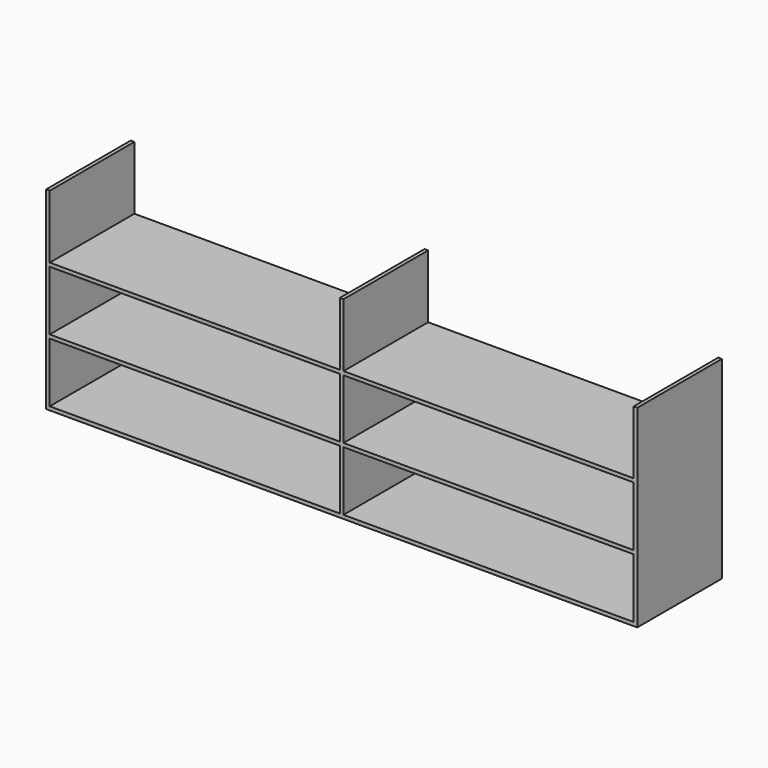
from build123d import *

# Parameters (mm, degrees)
SKETCH004_W      = 15
SKETCH004_H      = 435
EXTRUDE004_DEPTH = 780
ARRAY_X_COUNT    = 3
ARRAY_X_PITCH    = 1207.5
SKETCH003_W      = 2430
SKETCH003_H      = 435
EXTRUDE003_DEPTH = 15
ARRAY002_Z_COUNT = 3
ARRAY002_Z_PITCH = 260


with BuildPart() as obj1:
    # Sketch004 → Extrude004 (new body)
    with BuildSketch(Plane.XY):
        with Locations((7.5, 217.5)):
            Rectangle(SKETCH004_W, SKETCH004_H)
    extrude(amount=EXTRUDE004_DEPTH)

    # Array X: obj1 ×3


with BuildPart() as obj1_1:
    add(obj1.part)
    with Locations(*[(i * ARRAY_X_PITCH, 0, 0) for i in range(1, ARRAY_X_COUNT)]):
        add(obj1.part)


with BuildPart() as obj1_2:
    # Array placement: moved
    add(obj1_1.part.moved(Location((20, 15, 35))))


with BuildPart() as obj2:
    # Sketch003 → Extrude003 (new body)
    with BuildSketch(Plane.XY):
        with Locations((1215, 217.5)):
            Rectangle(SKETCH003_W, SKETCH003_H)
    extrude(amount=EXTRUDE003_DEPTH)


with BuildPart() as obj2_1:
    # Extrude003 placement: moved
    add(obj2.part.moved(Location((20, 15, 20))))

    # Array002 Z: obj2 ×3


with BuildPart() as obj2_2:
    add(obj2_1.part)
    with Locations(*[(0, 0, i * ARRAY002_Z_PITCH) for i in range(1, ARRAY002_Z_COUNT)]):
        add(obj2_1.part)

    # Fusion001: union obj1
    add(obj1_2.part)


solid = obj2_2.part
